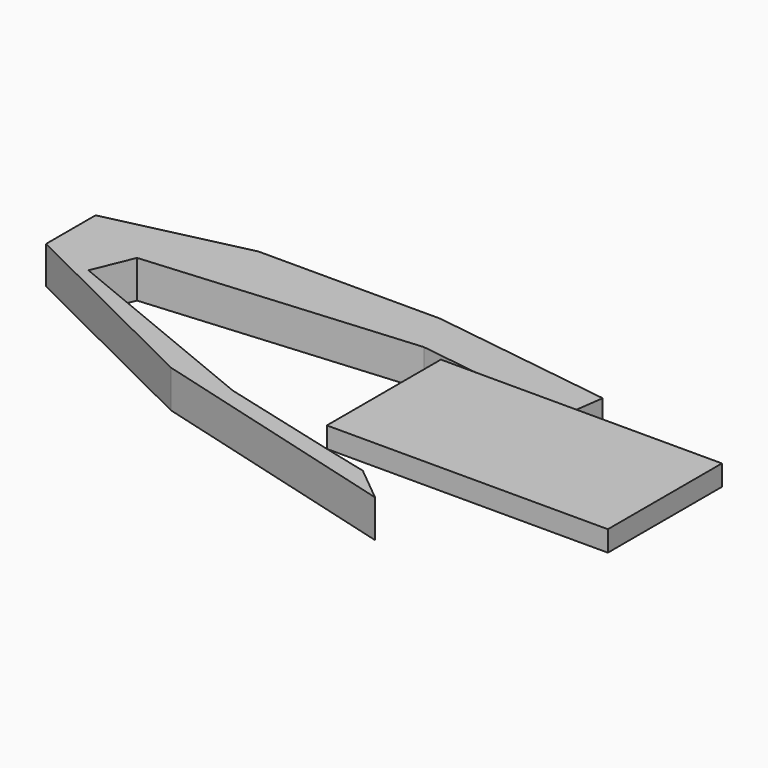
from build123d import *

# Parameters (mm, degrees)
F0_W     = 189.90235
F0_H     = 96.324153
F1_DEPTH = 13.97
F3_DEPTH = 25.4


with BuildPart() as f1:
    # F0 (on Top) → F1 (new body)
    with BuildSketch(Plane.XY):
        with Locations((-19.980274, -0.863683)):
            Rectangle(F0_W, F0_H)
    extrude(amount=-F1_DEPTH)


with BuildPart() as f3:
    # F2 (on face) → F3 (new body)
    with BuildSketch(Plane(origin=(0, 0, -13.97), x_dir=(1, 0, 0), z_dir=(0, 0, -1))):
        Polygon((-195.472792, 27.956877), (-114.931449, 49.025759), (-84.589764, 56.600366), (-60.408089, 76.454453), (-237.067461, 27.956877), (-376.978874, -41.377101), (-376.978874, -83.153598), (-284.077346, -104.561727), (-161.246053, -104.561727), (-37.432229, -87.125827), (-41.416086, -58.836113), (-147.646233, -73.795818), (-329.485079, -58.836113), (-340.624392, -31.760361), align=None)
    extrude(amount=F3_DEPTH)


solid = Compound([f1.part, f3.part])
